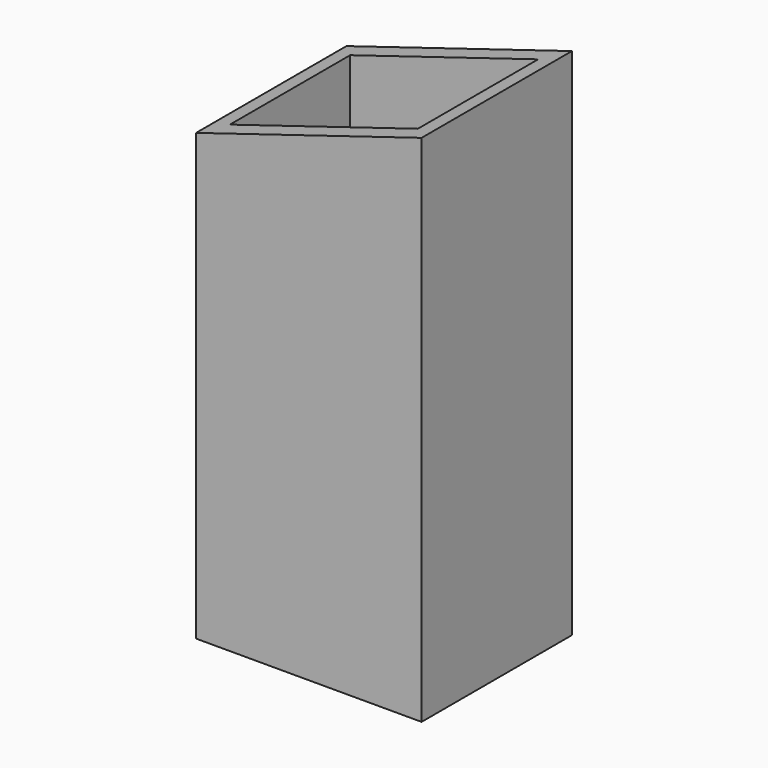
from build123d import *

# Parameters (mm, degrees)
F0_W     = 60
F0_H     = 50
F0_W_2   = 50
F0_H_2   = 40
F1_DEPTH = 136.8
F3_DEPTH = 60


with BuildPart() as f1:
    # F0 (on Top) → F1 (new body)
    with BuildSketch(Plane.XY):
        Rectangle(F0_W, F0_H)
        Rectangle(F0_W_2, F0_H_2, mode=Mode.SUBTRACT)
    extrude(amount=F1_DEPTH)

    # F2 (on face) → F3 (cut)
    with BuildSketch(Plane.XZ.offset(25)):
        Polygon((30, 136.8), (-30, 136.8), (-30, 118.456159), align=None)
    extrude(amount=-F3_DEPTH, mode=Mode.SUBTRACT)


solid = f1.part
